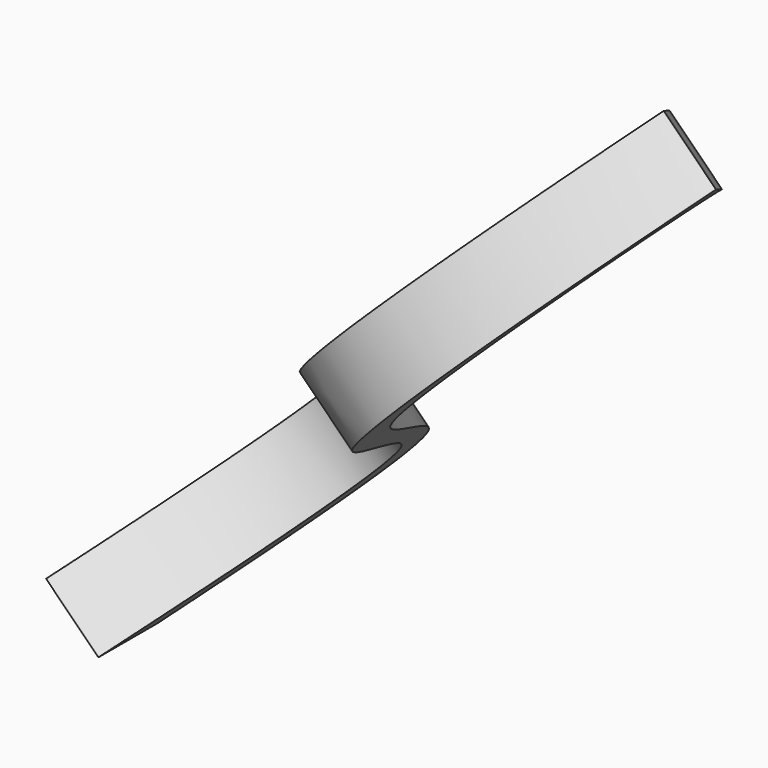
from build123d import *

# Parameters (mm, degrees)
F3_DEPTH = 5.08


with BuildPart() as f3:
    # F2 (on face) → F3 (new body)
    with BuildSketch(Plane(origin=(0, 0, 0), x_dir=(0, 1, 0), z_dir=(0.7071067812, 0, -0.7071067812))):
        with BuildLine():
            Line((-5.08, 0), (0, 0))
            add(Edge.make_bspline(
                [(0, 0), (23.4029460788, 18.2333222313), (-28.1303848957, 28.4539069975), (-3.0628304596, 55.8473494067), (-0.593259947, 55.5279689115)],
                knots=[0, 0, 0, 0, 0.5172578071, 0.9247479083, 0.9247479083, 0.9247479083, 0.9247479083], degree=3))
            Line((-0.593259947, 55.5279689115), (-2.54, 57.1594722569))
            add(Edge.make_bspline(
                [(-5.08, 0), (20.9101547671, 17.3044570296), (-27.0415343323, 27.4712705946), (-8.9632431045, 50.9601086378), (-2.54, 57.1594722569)],
                knots=[0, 0, 0, 0, 0.5214909676, 1, 1, 1, 1], degree=3))
        make_face()
    extrude(amount=F3_DEPTH)


solid = f3.part
